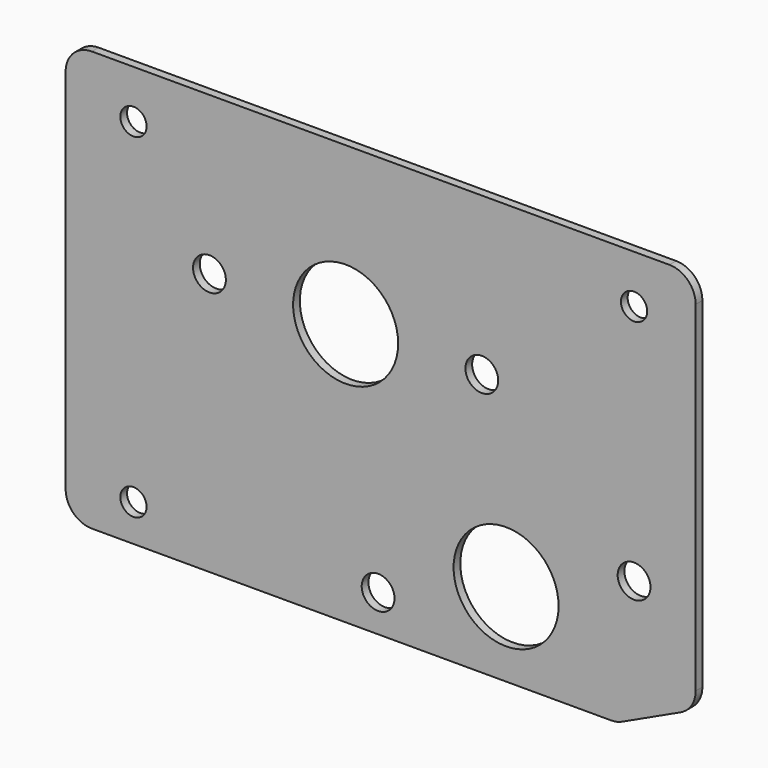
from build123d import *

# Parameters (mm, degrees)
F0_R     = 4.7625
F0_R_2   = 5.953125
F0_R_3   = 19.05
F1_DEPTH = 3.048


with BuildPart() as f1:
    # F0 (on Front) → F1 (new body)
    with BuildSketch(Plane.XZ):
        with BuildLine():
            ThreePointArc((-180.010916, 47.074063), (-186.746108, 44.284255), (-189.535916, 37.549063))
            Line((-189.535916, 37.549063), (-189.535916, -95.800937))
            ThreePointArc((-189.535916, -95.800937), (-186.746108, -102.536129), (-180.010916, -105.325937))
            Line((-180.010916, -105.325937), (8.377442, -105.325937))
            ThreePointArc((8.377442, -105.325937), (10.43903, -105.100157), (12.402881, -104.433519))
            Line((12.402881, -104.433519), (33.564523, -94.565683))
            ThreePointArc((33.564523, -94.565683), (37.572388, -91.05088), (39.064084, -85.933102))
            Line((39.064084, -85.933102), (39.064084, 37.549063))
            ThreePointArc((39.064084, 37.549063), (36.274276, 44.284255), (29.539084, 47.074063))
            Line((29.539084, 47.074063), (-180.010916, 47.074063))
        make_face()
        with Locations((-164.920668, -91.929214)):
            Circle(F0_R, mode=Mode.SUBTRACT)
        with Locations((-76.149133, -91.929214)):
            Circle(F0_R_2, mode=Mode.SUBTRACT)
        with Locations((-29.71804, -75.029679)):
            Circle(F0_R_3, mode=Mode.SUBTRACT)
        with Locations((16.713054, -58.130143)):
            Circle(F0_R_2, mode=Mode.SUBTRACT)
        with Locations((-137.346853, -10.075937)):
            Circle(F0_R_2, mode=Mode.SUBTRACT)
        with Locations((-87.935916, -10.075937)):
            Circle(F0_R_3, mode=Mode.SUBTRACT)
        with Locations((-164.920668, 29.595656)):
            Circle(F0_R, mode=Mode.SUBTRACT)
        with Locations((-38.524978, -10.075937)):
            Circle(F0_R_2, mode=Mode.SUBTRACT)
        with Locations((16.713054, 29.595656)):
            Circle(F0_R, mode=Mode.SUBTRACT)
    extrude(amount=F1_DEPTH)


solid = f1.part
